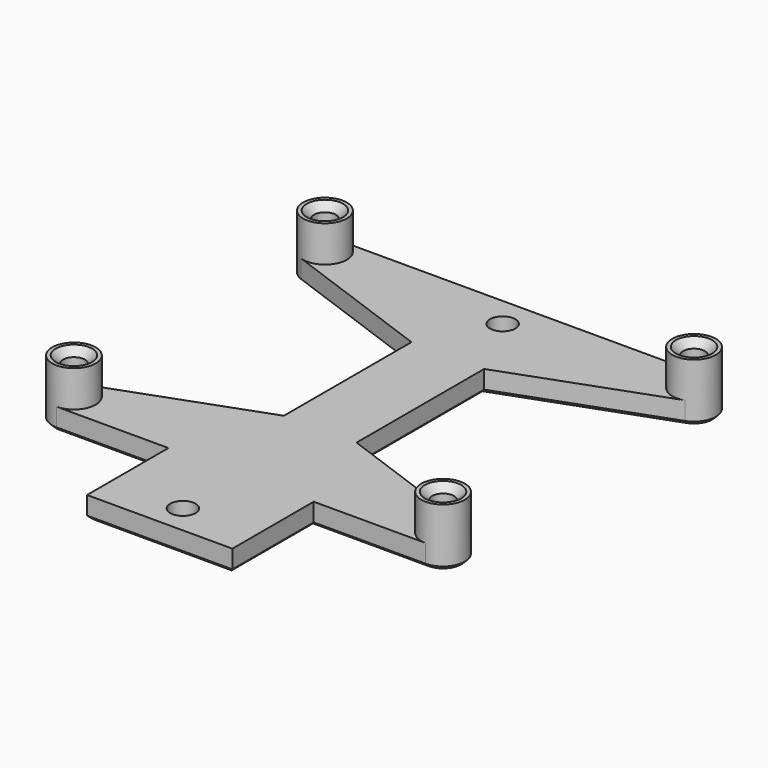
from build123d import *

# Parameters (mm, degrees)
CYLINDER001_R     = 3
CYLINDER001_DEPTH = 8
PAD007_DEPTH      = 3
CYLINDER002_R     = 3
CYLINDER002_DEPTH = 8
SKETCH029_R       = 1.5
POCKET021_DEPTH   = 10
CHAMFER018_SIZE   = 1
SKETCH030_R       = 1.75
POCKET022_DEPTH   = 5
CHAMFER019_SIZE   = 0.5


with BuildPart() as keypadbracketscrewcylinder:
    # Cylinder001 → Cylinder001 (new body)
    with BuildSketch(Plane(origin=(25.4, 13.5, 18), x_dir=(1, 0, 0), z_dir=(0, 0, 1))):
        Circle(CYLINDER001_R)
    extrude(amount=CYLINDER001_DEPTH)


with BuildPart() as keypadbracketpad007:
    # Sketch028 → Pad007 (new body)
    with BuildSketch(Plane.XY.offset(18)):
        with BuildLine():
            Line((0, -3.5), (10, -3.5))
            Line((10, -3.5), (10, 10.5))
            Line((10, 10.5), (25.4, 10.5))
            ThreePointArc((25.4, 10.5), (28.354423, 12.979055), (26.42606, 16.319078))
            Line((26.42606, 16.319078), (5, 24.117526))
            Line((5, 24.117526), (5, 46.062474))
            Line((5, 46.062474), (26.42606, 53.860922))
            ThreePointArc((26.42606, 53.860922), (28.354423, 57.200945), (25.4, 59.68))
            Line((25.4, 59.68), (0, 59.68))
            Line((0, 59.68), (0, -3.5))
        make_face()
    extrude(amount=PAD007_DEPTH)


with BuildPart() as keypadbracketscrewholeschamfer018:
    # Cylinder002 → Cylinder002 (new body)
    with BuildSketch(Plane(origin=(25.4, 56.68, 18), x_dir=(1, 0, 0), z_dir=(0, 0, 1))):
        Circle(CYLINDER002_R)
    extrude(amount=CYLINDER002_DEPTH)

    # Fusion003: union KeypadBracketScrewCylinder, KeypadBracketPad007
    add(keypadbracketscrewcylinder.part)
    add(keypadbracketpad007.part)

    # Sketch029 → Pocket021 (cut)
    with BuildSketch(Plane.XY.offset(26)):
        with Locations((25.4, 13.5)):
            Circle(SKETCH029_R)
        with Locations((25.4, 56.68)):
            Circle(SKETCH029_R)
    extrude(amount=-POCKET021_DEPTH, mode=Mode.SUBTRACT)

    # Chamfer018
    chamfer018_edges = [keypadbracketscrewholeschamfer018.edges().sort_by_distance(p)[0] for p in [
        (23.9, 56.68, 26),
        (23.9, 13.5, 26),
    ]]
    chamfer(chamfer018_edges, length=CHAMFER018_SIZE)


with BuildPart() as clone005:
    # Part__Mirroring004: instance of KeypadBracketScrewHolesChamfer018
    add(keypadbracketscrewholeschamfer018.part.mirror(Plane(origin=(0, 0, 0), x_dir=(0, -1, 0), z_dir=(1, 0, 0))))

    # Fusion004: union KeypadBracketScrewHolesChamfer018
    add(keypadbracketscrewholeschamfer018.part)

    # Sketch030 → Pocket022 (cut)
    with BuildSketch(Plane.XY.offset(21)):
        with Locations((0, 0.5)):
            Circle(SKETCH030_R)
        with Locations((0, 55.5)):
            Circle(SKETCH030_R)
    extrude(amount=-POCKET022_DEPTH, mode=Mode.SUBTRACT)

    # Chamfer019
    chamfer019_edges = [clone005.edges().sort_by_distance(p)[0] for p in [
        (-25.4, 15, 18),
        (-25.4, 12, 18),
        (0, 57.25, 18),
        (0, 53.75, 18),
        (0, 2.25, 18),
        (0, -1.25, 18),
        (-27.52132, 58.80132, 18),
        (-27.857456, 54.959271, 18),
        (0, 59.68, 18),
        (-15.71303, 49.961698, 18),
        (27.52132, 58.80132, 18),
        (-5, 35.09, 18),
        (27.857456, 54.959271, 18),
        (-15.71303, 20.218302, 18),
        (15.71303, 49.961698, 18),
        (-27.857456, 15.220729, 18),
        (5, 35.09, 18),
        (-27.52132, 11.37868, 18),
        (15.71303, 20.218302, 18),
        (-17.7, 10.5, 18),
        (27.857456, 15.220729, 18),
        (-10, 3.5, 18),
        (27.52132, 11.37868, 18),
        (0, -3.5, 18),
        (17.7, 10.5, 18),
        (10, 3.5, 18),
        (25.4, 58.18, 18),
        (25.4, 55.18, 18),
        (25.4, 15, 18),
        (25.4, 12, 18),
        (-25.4, 58.18, 18),
        (-25.4, 55.18, 18),
    ]]
    chamfer(chamfer019_edges, length=CHAMFER019_SIZE)


with BuildPart() as clone005_1:
    # Clone005 placement: moved
    add(clone005.part.moved(Location((-175, 30, -56))))


solid = clone005_1.part
